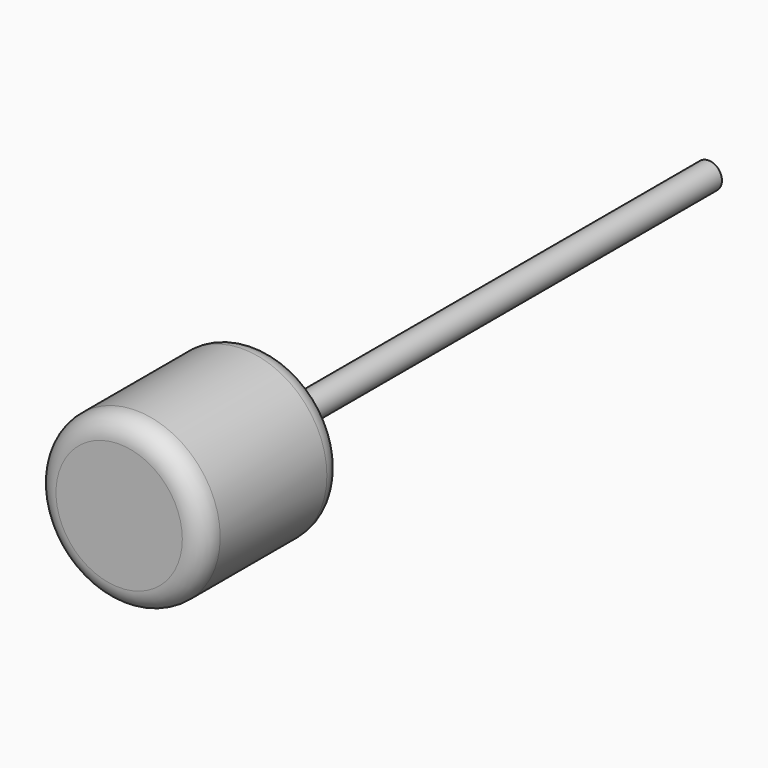
from build123d import *

# Parameters (mm, degrees)
F0_R     = 15.24
F1_DEPTH = 31.75
F2_R     = 3.81
F3_R     = 2.413
F4_DEPTH = 101.6


with BuildPart() as f1:
    # F0 (on Front) → F1 (new body)
    with BuildSketch(Plane.XZ):
        Circle(F0_R)
    extrude(amount=F1_DEPTH)

    # F2
    f2_edges = [f1.edges().sort_by_distance(p)[0] for p in [
        (-15.24, -31.75, 0),
        (-15.24, 0, 0),
    ]]
    fillet(f2_edges, radius=F2_R)

    # F3 (on face) → F4 (join)
    with BuildSketch(Plane(origin=(0, 0, 0), x_dir=(-1, 0, 0), z_dir=(0, 1, 0))):
        Circle(F3_R)
    extrude(amount=F4_DEPTH)


solid = f1.part
